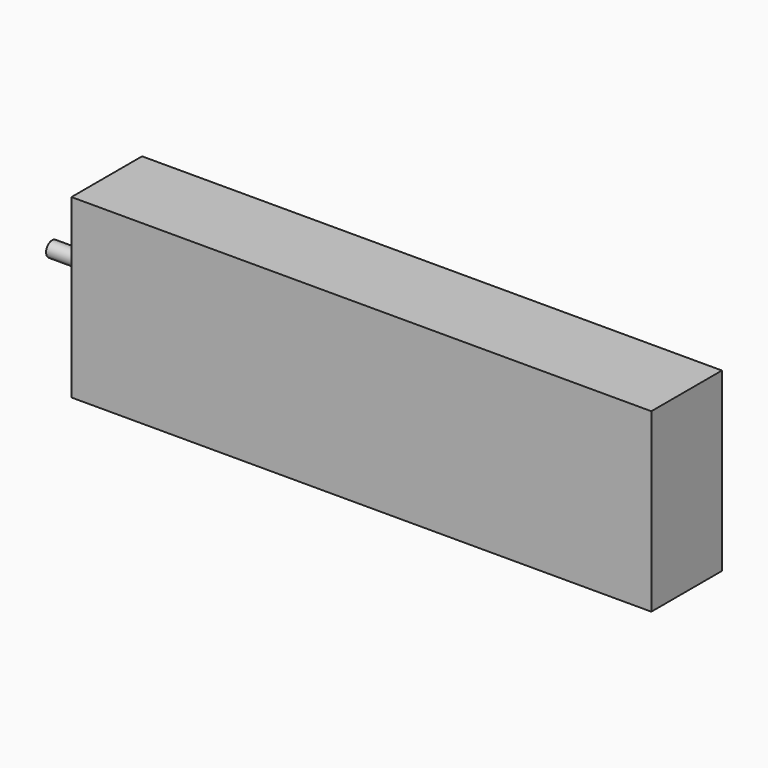
from build123d import *

# Parameters (mm, degrees)
F0_W     = 230
F0_H     = 70
F1_DEPTH = 35
F2_R     = 3
F3_DEPTH = 25


with BuildPart() as f1:
    # F0 (on Front) → F1 (new body)
    with BuildSketch(Plane.XZ):
        Rectangle(F0_W, F0_H)
    extrude(amount=F1_DEPTH)

    # F2 (on face) → F3 (join)
    with BuildSketch(Plane(origin=(-115, 0, 0), x_dir=(0, -1, 0), z_dir=(-1, 0, 0))):
        with Locations((13.335, 0)):
            Circle(F2_R)
    extrude(amount=F3_DEPTH)


solid = f1.part
